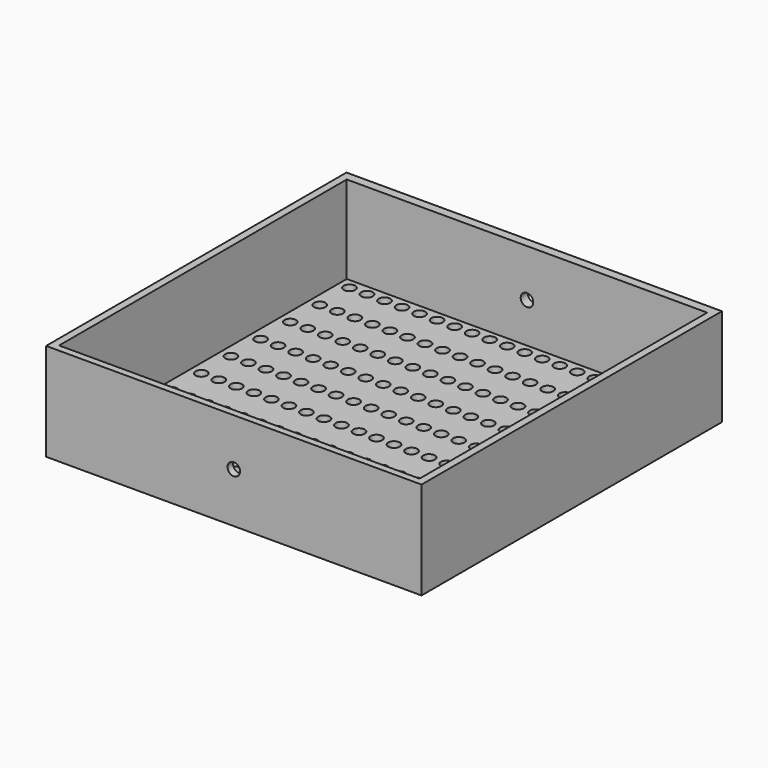
from build123d import *

# Parameters (mm, degrees)
F0_W     = 150
F0_H     = 150
F0_R     = 2.3
F1_DEPTH = 4
F2_W     = 144
F2_H     = 143.631331
F3_DEPTH = 35
F5_D     = 5


with BuildPart() as f1:
    # F0 (on Top) → F1 (new body)
    with BuildSketch(Plane.XY):
        Rectangle(F0_W, F0_H)
        with Locations((-67.596361, -65.940435)):
            Circle(F0_R, mode=Mode.SUBTRACT)
        with Locations((-60.596361, -65.940435)):
            Circle(F0_R, mode=Mode.SUBTRACT)
        with Locations((-53.596361, -65.940435)):
            Circle(F0_R, mode=Mode.SUBTRACT)
        with Locations((-46.596361, -65.940435)):
            Circle(F0_R, mode=Mode.SUBTRACT)
        with Locations((-39.596361, -65.940435)):
            Circle(F0_R, mode=Mode.SUBTRACT)
        with Locations((-67.596361, -51.140435)):
            Circle(F0_R, mode=Mode.SUBTRACT)
        with Locations((-60.596361, -51.140435)):
            Circle(F0_R, mode=Mode.SUBTRACT)
        with Locations((-53.596361, -51.140435)):
            Circle(F0_R, mode=Mode.SUBTRACT)
        with Locations((-46.596361, -51.140435)):
            Circle(F0_R, mode=Mode.SUBTRACT)
        with Locations((-39.596361, -51.140435)):
            Circle(F0_R, mode=Mode.SUBTRACT)
        with Locations((-32.596361, -65.940435)):
            Circle(F0_R, mode=Mode.SUBTRACT)
        with Locations((-25.596361, -65.940435)):
            Circle(F0_R, mode=Mode.SUBTRACT)
        with Locations((-18.596361, -65.940435)):
            Circle(F0_R, mode=Mode.SUBTRACT)
        with Locations((-11.596361, -65.940435)):
            Circle(F0_R, mode=Mode.SUBTRACT)
        with Locations((-4.596361, -65.940435)):
            Circle(F0_R, mode=Mode.SUBTRACT)
        with Locations((-32.596361, -51.140435)):
            Circle(F0_R, mode=Mode.SUBTRACT)
        with Locations((-25.596361, -51.140435)):
            Circle(F0_R, mode=Mode.SUBTRACT)
        with Locations((-18.596361, -51.140435)):
            Circle(F0_R, mode=Mode.SUBTRACT)
        with Locations((-11.596361, -51.140435)):
            Circle(F0_R, mode=Mode.SUBTRACT)
        with Locations((-4.596361, -51.140435)):
            Circle(F0_R, mode=Mode.SUBTRACT)
        with Locations((-67.596361, -36.340435)):
            Circle(F0_R, mode=Mode.SUBTRACT)
        with Locations((-60.596361, -36.340435)):
            Circle(F0_R, mode=Mode.SUBTRACT)
        with Locations((-67.596361, -21.540435)):
            Circle(F0_R, mode=Mode.SUBTRACT)
        with Locations((-60.596361, -21.540435)):
            Circle(F0_R, mode=Mode.SUBTRACT)
        with Locations((-53.596361, -36.340435)):
            Circle(F0_R, mode=Mode.SUBTRACT)
        with Locations((-46.596361, -36.340435)):
            Circle(F0_R, mode=Mode.SUBTRACT)
        with Locations((-39.596361, -36.340435)):
            Circle(F0_R, mode=Mode.SUBTRACT)
        with Locations((-53.596361, -21.540435)):
            Circle(F0_R, mode=Mode.SUBTRACT)
        with Locations((-46.596361, -21.540435)):
            Circle(F0_R, mode=Mode.SUBTRACT)
        with Locations((-39.596361, -21.540435)):
            Circle(F0_R, mode=Mode.SUBTRACT)
        with Locations((-67.596361, -6.740435)):
            Circle(F0_R, mode=Mode.SUBTRACT)
        with Locations((-60.596361, -6.740435)):
            Circle(F0_R, mode=Mode.SUBTRACT)
        with Locations((-53.596361, -6.740435)):
            Circle(F0_R, mode=Mode.SUBTRACT)
        with Locations((-46.596361, -6.740435)):
            Circle(F0_R, mode=Mode.SUBTRACT)
        with Locations((-39.596361, -6.740435)):
            Circle(F0_R, mode=Mode.SUBTRACT)
        with Locations((-32.596361, -36.340435)):
            Circle(F0_R, mode=Mode.SUBTRACT)
        with Locations((-25.596361, -36.340435)):
            Circle(F0_R, mode=Mode.SUBTRACT)
        with Locations((-32.596361, -21.540435)):
            Circle(F0_R, mode=Mode.SUBTRACT)
        with Locations((-25.596361, -21.540435)):
            Circle(F0_R, mode=Mode.SUBTRACT)
        with Locations((-18.596361, -36.340435)):
            Circle(F0_R, mode=Mode.SUBTRACT)
        with Locations((-11.596361, -36.340435)):
            Circle(F0_R, mode=Mode.SUBTRACT)
        with Locations((-4.596361, -36.340435)):
            Circle(F0_R, mode=Mode.SUBTRACT)
        with Locations((-18.596361, -21.540435)):
            Circle(F0_R, mode=Mode.SUBTRACT)
        with Locations((-11.596361, -21.540435)):
            Circle(F0_R, mode=Mode.SUBTRACT)
        with Locations((-4.596361, -21.540435)):
            Circle(F0_R, mode=Mode.SUBTRACT)
        with Locations((-32.596361, -6.740435)):
            Circle(F0_R, mode=Mode.SUBTRACT)
        with Locations((-25.596361, -6.740435)):
            Circle(F0_R, mode=Mode.SUBTRACT)
        with Locations((-18.596361, -6.740435)):
            Circle(F0_R, mode=Mode.SUBTRACT)
        with Locations((-11.596361, -6.740435)):
            Circle(F0_R, mode=Mode.SUBTRACT)
        with Locations((-4.596361, -6.740435)):
            Circle(F0_R, mode=Mode.SUBTRACT)
        with Locations((2.403639, -65.940435)):
            Circle(F0_R, mode=Mode.SUBTRACT)
        with Locations((9.403639, -65.940435)):
            Circle(F0_R, mode=Mode.SUBTRACT)
        with Locations((16.403639, -65.940435)):
            Circle(F0_R, mode=Mode.SUBTRACT)
        with Locations((23.403639, -65.940435)):
            Circle(F0_R, mode=Mode.SUBTRACT)
        with Locations((30.403639, -65.940435)):
            Circle(F0_R, mode=Mode.SUBTRACT)
        with Locations((37.403639, -65.940435)):
            Circle(F0_R, mode=Mode.SUBTRACT)
        with Locations((2.403639, -51.140435)):
            Circle(F0_R, mode=Mode.SUBTRACT)
        with Locations((9.403639, -51.140435)):
            Circle(F0_R, mode=Mode.SUBTRACT)
        with Locations((16.403639, -51.140435)):
            Circle(F0_R, mode=Mode.SUBTRACT)
        with Locations((23.403639, -51.140435)):
            Circle(F0_R, mode=Mode.SUBTRACT)
        with Locations((30.403639, -51.140435)):
            Circle(F0_R, mode=Mode.SUBTRACT)
        with Locations((37.403639, -51.140435)):
            Circle(F0_R, mode=Mode.SUBTRACT)
        with Locations((44.403639, -65.940435)):
            Circle(F0_R, mode=Mode.SUBTRACT)
        with Locations((51.403639, -65.940435)):
            Circle(F0_R, mode=Mode.SUBTRACT)
        with Locations((58.403639, -65.940435)):
            Circle(F0_R, mode=Mode.SUBTRACT)
        with Locations((65.403639, -65.940435)):
            Circle(F0_R, mode=Mode.SUBTRACT)
        with Locations((44.403639, -51.140435)):
            Circle(F0_R, mode=Mode.SUBTRACT)
        with Locations((51.403639, -51.140435)):
            Circle(F0_R, mode=Mode.SUBTRACT)
        with Locations((58.403639, -51.140435)):
            Circle(F0_R, mode=Mode.SUBTRACT)
        with Locations((65.403639, -51.140435)):
            Circle(F0_R, mode=Mode.SUBTRACT)
        with Locations((2.403639, -36.340435)):
            Circle(F0_R, mode=Mode.SUBTRACT)
        with Locations((9.403639, -36.340435)):
            Circle(F0_R, mode=Mode.SUBTRACT)
        with Locations((16.403639, -36.340435)):
            Circle(F0_R, mode=Mode.SUBTRACT)
        with Locations((2.403639, -21.540435)):
            Circle(F0_R, mode=Mode.SUBTRACT)
        with Locations((9.403639, -21.540435)):
            Circle(F0_R, mode=Mode.SUBTRACT)
        with Locations((16.403639, -21.540435)):
            Circle(F0_R, mode=Mode.SUBTRACT)
        with Locations((23.403639, -36.340435)):
            Circle(F0_R, mode=Mode.SUBTRACT)
        with Locations((30.403639, -36.340435)):
            Circle(F0_R, mode=Mode.SUBTRACT)
        with Locations((37.403639, -36.340435)):
            Circle(F0_R, mode=Mode.SUBTRACT)
        with Locations((23.403639, -21.540435)):
            Circle(F0_R, mode=Mode.SUBTRACT)
        with Locations((30.403639, -21.540435)):
            Circle(F0_R, mode=Mode.SUBTRACT)
        with Locations((37.403639, -21.540435)):
            Circle(F0_R, mode=Mode.SUBTRACT)
        with Locations((2.403639, -6.740435)):
            Circle(F0_R, mode=Mode.SUBTRACT)
        with Locations((9.403639, -6.740435)):
            Circle(F0_R, mode=Mode.SUBTRACT)
        with Locations((16.403639, -6.740435)):
            Circle(F0_R, mode=Mode.SUBTRACT)
        with Locations((23.403639, -6.740435)):
            Circle(F0_R, mode=Mode.SUBTRACT)
        with Locations((30.403639, -6.740435)):
            Circle(F0_R, mode=Mode.SUBTRACT)
        with Locations((37.403639, -6.740435)):
            Circle(F0_R, mode=Mode.SUBTRACT)
        with Locations((44.403639, -36.340435)):
            Circle(F0_R, mode=Mode.SUBTRACT)
        with Locations((51.403639, -36.340435)):
            Circle(F0_R, mode=Mode.SUBTRACT)
        with Locations((44.403639, -21.540435)):
            Circle(F0_R, mode=Mode.SUBTRACT)
        with Locations((51.403639, -21.540435)):
            Circle(F0_R, mode=Mode.SUBTRACT)
        with Locations((58.403639, -36.340435)):
            Circle(F0_R, mode=Mode.SUBTRACT)
        with Locations((65.403639, -36.340435)):
            Circle(F0_R, mode=Mode.SUBTRACT)
        with Locations((58.403639, -21.540435)):
            Circle(F0_R, mode=Mode.SUBTRACT)
        with Locations((65.403639, -21.540435)):
            Circle(F0_R, mode=Mode.SUBTRACT)
        with Locations((44.403639, -6.740435)):
            Circle(F0_R, mode=Mode.SUBTRACT)
        with Locations((51.403639, -6.740435)):
            Circle(F0_R, mode=Mode.SUBTRACT)
        with Locations((58.403639, -6.740435)):
            Circle(F0_R, mode=Mode.SUBTRACT)
        with Locations((65.403639, -6.740435)):
            Circle(F0_R, mode=Mode.SUBTRACT)
        with Locations((-67.596361, 8.059565)):
            Circle(F0_R, mode=Mode.SUBTRACT)
        with Locations((-60.596361, 8.059565)):
            Circle(F0_R, mode=Mode.SUBTRACT)
        with Locations((-53.596361, 8.059565)):
            Circle(F0_R, mode=Mode.SUBTRACT)
        with Locations((-46.596361, 8.059565)):
            Circle(F0_R, mode=Mode.SUBTRACT)
        with Locations((-39.596361, 8.059565)):
            Circle(F0_R, mode=Mode.SUBTRACT)
        with Locations((-67.596361, 22.859565)):
            Circle(F0_R, mode=Mode.SUBTRACT)
        with Locations((-60.596361, 22.859565)):
            Circle(F0_R, mode=Mode.SUBTRACT)
        with Locations((-53.596361, 22.859565)):
            Circle(F0_R, mode=Mode.SUBTRACT)
        with Locations((-46.596361, 22.859565)):
            Circle(F0_R, mode=Mode.SUBTRACT)
        with Locations((-39.596361, 22.859565)):
            Circle(F0_R, mode=Mode.SUBTRACT)
        with Locations((-32.596361, 8.059565)):
            Circle(F0_R, mode=Mode.SUBTRACT)
        with Locations((-25.596361, 8.059565)):
            Circle(F0_R, mode=Mode.SUBTRACT)
        with Locations((-18.596361, 8.059565)):
            Circle(F0_R, mode=Mode.SUBTRACT)
        with Locations((-11.596361, 8.059565)):
            Circle(F0_R, mode=Mode.SUBTRACT)
        with Locations((-4.596361, 8.059565)):
            Circle(F0_R, mode=Mode.SUBTRACT)
        with Locations((-32.596361, 22.859565)):
            Circle(F0_R, mode=Mode.SUBTRACT)
        with Locations((-25.596361, 22.859565)):
            Circle(F0_R, mode=Mode.SUBTRACT)
        with Locations((-18.596361, 22.859565)):
            Circle(F0_R, mode=Mode.SUBTRACT)
        with Locations((-11.596361, 22.859565)):
            Circle(F0_R, mode=Mode.SUBTRACT)
        with Locations((-4.596361, 22.859565)):
            Circle(F0_R, mode=Mode.SUBTRACT)
        with Locations((-67.596361, 37.659565)):
            Circle(F0_R, mode=Mode.SUBTRACT)
        with Locations((-60.596361, 37.659565)):
            Circle(F0_R, mode=Mode.SUBTRACT)
        with Locations((-67.596361, 52.459565)):
            Circle(F0_R, mode=Mode.SUBTRACT)
        with Locations((-60.596361, 52.459565)):
            Circle(F0_R, mode=Mode.SUBTRACT)
        with Locations((-53.596361, 37.659565)):
            Circle(F0_R, mode=Mode.SUBTRACT)
        with Locations((-46.596361, 37.659565)):
            Circle(F0_R, mode=Mode.SUBTRACT)
        with Locations((-39.596361, 37.659565)):
            Circle(F0_R, mode=Mode.SUBTRACT)
        with Locations((-53.596361, 52.459565)):
            Circle(F0_R, mode=Mode.SUBTRACT)
        with Locations((-46.596361, 52.459565)):
            Circle(F0_R, mode=Mode.SUBTRACT)
        with Locations((-39.596361, 52.459565)):
            Circle(F0_R, mode=Mode.SUBTRACT)
        with Locations((-67.596361, 67.259565)):
            Circle(F0_R, mode=Mode.SUBTRACT)
        with Locations((-60.596361, 67.259565)):
            Circle(F0_R, mode=Mode.SUBTRACT)
        with Locations((-53.596361, 67.259565)):
            Circle(F0_R, mode=Mode.SUBTRACT)
        with Locations((-46.596361, 67.259565)):
            Circle(F0_R, mode=Mode.SUBTRACT)
        with Locations((-39.596361, 67.259565)):
            Circle(F0_R, mode=Mode.SUBTRACT)
        with Locations((-32.596361, 37.659565)):
            Circle(F0_R, mode=Mode.SUBTRACT)
        with Locations((-25.596361, 37.659565)):
            Circle(F0_R, mode=Mode.SUBTRACT)
        with Locations((-32.596361, 52.459565)):
            Circle(F0_R, mode=Mode.SUBTRACT)
        with Locations((-25.596361, 52.459565)):
            Circle(F0_R, mode=Mode.SUBTRACT)
        with Locations((-18.596361, 37.659565)):
            Circle(F0_R, mode=Mode.SUBTRACT)
        with Locations((-11.596361, 37.659565)):
            Circle(F0_R, mode=Mode.SUBTRACT)
        with Locations((-4.596361, 37.659565)):
            Circle(F0_R, mode=Mode.SUBTRACT)
        with Locations((-18.596361, 52.459565)):
            Circle(F0_R, mode=Mode.SUBTRACT)
        with Locations((-11.596361, 52.459565)):
            Circle(F0_R, mode=Mode.SUBTRACT)
        with Locations((-4.596361, 52.459565)):
            Circle(F0_R, mode=Mode.SUBTRACT)
        with Locations((-32.596361, 67.259565)):
            Circle(F0_R, mode=Mode.SUBTRACT)
        with Locations((-25.596361, 67.259565)):
            Circle(F0_R, mode=Mode.SUBTRACT)
        with Locations((-18.596361, 67.259565)):
            Circle(F0_R, mode=Mode.SUBTRACT)
        with Locations((-11.596361, 67.259565)):
            Circle(F0_R, mode=Mode.SUBTRACT)
        with Locations((-4.596361, 67.259565)):
            Circle(F0_R, mode=Mode.SUBTRACT)
        with Locations((2.403639, 8.059565)):
            Circle(F0_R, mode=Mode.SUBTRACT)
        with Locations((9.403639, 8.059565)):
            Circle(F0_R, mode=Mode.SUBTRACT)
        with Locations((16.403639, 8.059565)):
            Circle(F0_R, mode=Mode.SUBTRACT)
        with Locations((23.403639, 8.059565)):
            Circle(F0_R, mode=Mode.SUBTRACT)
        with Locations((30.403639, 8.059565)):
            Circle(F0_R, mode=Mode.SUBTRACT)
        with Locations((37.403639, 8.059565)):
            Circle(F0_R, mode=Mode.SUBTRACT)
        with Locations((2.403639, 22.859565)):
            Circle(F0_R, mode=Mode.SUBTRACT)
        with Locations((9.403639, 22.859565)):
            Circle(F0_R, mode=Mode.SUBTRACT)
        with Locations((16.403639, 22.859565)):
            Circle(F0_R, mode=Mode.SUBTRACT)
        with Locations((23.403639, 22.859565)):
            Circle(F0_R, mode=Mode.SUBTRACT)
        with Locations((30.403639, 22.859565)):
            Circle(F0_R, mode=Mode.SUBTRACT)
        with Locations((37.403639, 22.859565)):
            Circle(F0_R, mode=Mode.SUBTRACT)
        with Locations((44.403639, 8.059565)):
            Circle(F0_R, mode=Mode.SUBTRACT)
        with Locations((51.403639, 8.059565)):
            Circle(F0_R, mode=Mode.SUBTRACT)
        with Locations((58.403639, 8.059565)):
            Circle(F0_R, mode=Mode.SUBTRACT)
        with Locations((65.403639, 8.059565)):
            Circle(F0_R, mode=Mode.SUBTRACT)
        with Locations((44.403639, 22.859565)):
            Circle(F0_R, mode=Mode.SUBTRACT)
        with Locations((51.403639, 22.859565)):
            Circle(F0_R, mode=Mode.SUBTRACT)
        with Locations((58.403639, 22.859565)):
            Circle(F0_R, mode=Mode.SUBTRACT)
        with Locations((65.403639, 22.859565)):
            Circle(F0_R, mode=Mode.SUBTRACT)
        with Locations((2.403639, 37.659565)):
            Circle(F0_R, mode=Mode.SUBTRACT)
        with Locations((9.403639, 37.659565)):
            Circle(F0_R, mode=Mode.SUBTRACT)
        with Locations((16.403639, 37.659565)):
            Circle(F0_R, mode=Mode.SUBTRACT)
        with Locations((2.403639, 52.459565)):
            Circle(F0_R, mode=Mode.SUBTRACT)
        with Locations((9.403639, 52.459565)):
            Circle(F0_R, mode=Mode.SUBTRACT)
        with Locations((16.403639, 52.459565)):
            Circle(F0_R, mode=Mode.SUBTRACT)
        with Locations((23.403639, 37.659565)):
            Circle(F0_R, mode=Mode.SUBTRACT)
        with Locations((30.403639, 37.659565)):
            Circle(F0_R, mode=Mode.SUBTRACT)
        with Locations((37.403639, 37.659565)):
            Circle(F0_R, mode=Mode.SUBTRACT)
        with Locations((23.403639, 52.459565)):
            Circle(F0_R, mode=Mode.SUBTRACT)
        with Locations((30.403639, 52.459565)):
            Circle(F0_R, mode=Mode.SUBTRACT)
        with Locations((37.403639, 52.459565)):
            Circle(F0_R, mode=Mode.SUBTRACT)
        with Locations((2.403639, 67.259565)):
            Circle(F0_R, mode=Mode.SUBTRACT)
        with Locations((9.403639, 67.259565)):
            Circle(F0_R, mode=Mode.SUBTRACT)
        with Locations((16.403639, 67.259565)):
            Circle(F0_R, mode=Mode.SUBTRACT)
        with Locations((23.403639, 67.259565)):
            Circle(F0_R, mode=Mode.SUBTRACT)
        with Locations((30.403639, 67.259565)):
            Circle(F0_R, mode=Mode.SUBTRACT)
        with Locations((37.403639, 67.259565)):
            Circle(F0_R, mode=Mode.SUBTRACT)
        with Locations((44.403639, 37.659565)):
            Circle(F0_R, mode=Mode.SUBTRACT)
        with Locations((51.403639, 37.659565)):
            Circle(F0_R, mode=Mode.SUBTRACT)
        with Locations((44.403639, 52.459565)):
            Circle(F0_R, mode=Mode.SUBTRACT)
        with Locations((51.403639, 52.459565)):
            Circle(F0_R, mode=Mode.SUBTRACT)
        with Locations((58.403639, 37.659565)):
            Circle(F0_R, mode=Mode.SUBTRACT)
        with Locations((65.403639, 37.659565)):
            Circle(F0_R, mode=Mode.SUBTRACT)
        with Locations((58.403639, 52.459565)):
            Circle(F0_R, mode=Mode.SUBTRACT)
        with Locations((65.403639, 52.459565)):
            Circle(F0_R, mode=Mode.SUBTRACT)
        with Locations((44.403639, 67.259565)):
            Circle(F0_R, mode=Mode.SUBTRACT)
        with Locations((51.403639, 67.259565)):
            Circle(F0_R, mode=Mode.SUBTRACT)
        with Locations((58.403639, 67.259565)):
            Circle(F0_R, mode=Mode.SUBTRACT)
        with Locations((65.403639, 67.259565)):
            Circle(F0_R, mode=Mode.SUBTRACT)
    extrude(amount=F1_DEPTH)

    # F2 (on face) → F3 (join)
    with BuildSketch(Plane.XY.offset(4)):
        Polygon((-72, 75), (-75, 75), (-75, 71.394756), (-75, -72.236575), (-75, -75), (-72, -75), (72, -75), (75, -75), (75, -72.236575), (75, 71.394756), (75, 75), (72, 75), align=None)
        with Locations((0, -0.42091)):
            Rectangle(F2_W, F2_H, mode=Mode.SUBTRACT)
    extrude(amount=F3_DEPTH)

    # F5 (through all)
    with Locations(Plane.XZ.offset(75)):
        with Locations((0, 20.011427)):
            Hole(F5_D / 2)


solid = f1.part
